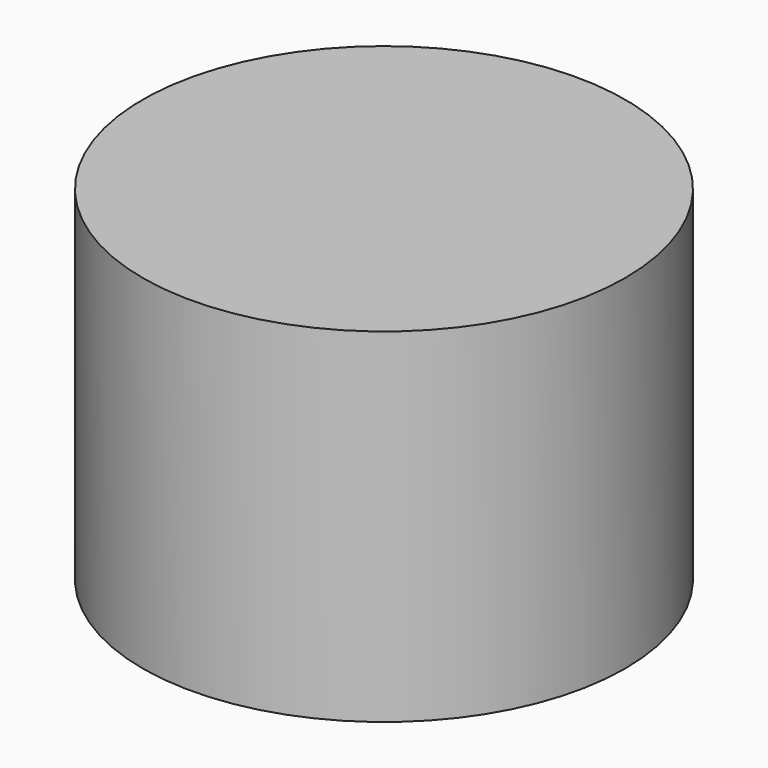
from build123d import *

# Parameters (mm, degrees)
F1_DEPTH = 3
F2_R     = 28.0774608195
F3_DEPTH = 40


with BuildPart() as f1:
    # F0 (on Top) → F1 (new body)
    with BuildSketch(Plane.XY):
        Polygon((-1.7611852, -21.5291416), (-1.5558652548, -21.5468495974), (-1.0818114, -21.5856312), (-0.4699508, -21.636609), (-0.3969258, -21.6435178), (-0.3252724, -21.6490296), (-0.0207264, -21.6393776), (0.6104382, -21.5966548), (1.2671422874, -21.5364461052), (2.499741, -21.3913212), (3.6132043839, -21.2107490818), (6.184519, -20.6706216), (8.8854276053, -19.6513166478), (11.0250659271, -18.5041385702), (11.6169488059, -18.1392303583), (13.1631458775, -17.0308708174), (14.5146196803, -15.9487131763), (14.8102822115, -15.6819803366), (16.769207, -13.5475218), (17.7081260922, -12.2278313396), (18.507075, -10.9898942), (19.2238910484, -9.6673935698), (19.916775, -8.2544666), (20.8174642493, -5.702497231), (21.3873061424, -2.4919049825), (21.4648752019, -1.3591436346), (21.3225858635, 2.8283372709), (21.2470797809, 3.5533069067), (19.9200073834, 8.0860084067), (19.4731131349, 9.0976431353), (18.2131732681, 11.4558837068), (17.560163, 12.523597), (17.013301, 13.255117), (16.824325, 13.504545), (16.280003, 14.266545), (15.854045, 14.998573), (15.657195, 15.625445), (15.610459, 16.150463), (15.610459, 16.323945), (15.610459, 16.649319), (15.511145, 17.622393), (15.202535, 18.768695), (14.661007, 19.810603), (14.082141, 20.568793), (13.864463, 20.795869), (13.752703, 20.911693), (13.409803, 21.246719), (12.996291, 21.617051), (12.672441, 21.868003), (12.532995, 21.960459), (12.487529, 21.960459), (12.431141, 21.960459), (12.263247, 22.047073), (12.130913, 22.212681), (12.118467, 22.251035), (12.104751, 22.284309), (11.902059, 22.467697), (11.581003, 22.609429), (11.509375, 22.621875), (11.436223, 22.635591), (11.134471, 22.699091), (10.980293, 22.740239), (10.980293, 22.754209), (10.980293, 22.780117), (10.774807, 22.856063), (10.258171, 22.949789), (9.573133, 23.018623), (9.039987, 23.044785), (8.863457, 23.044785), (8.685657, 23.044785), (8.152511, 23.018623), (7.467473, 22.949789), (6.950837, 22.856063), (6.746875, 22.780117), (6.746875, 22.754209), (6.746875, 22.740239), (6.607683, 22.699091), (6.336157, 22.635591), (6.270117, 22.621875), (6.203823, 22.609429), (5.687187, 22.370923), (5.065649, 21.974175), (4.947031, 21.880195), (4.823079, 21.786723), (4.433189, 21.528913), (3.938397, 21.366353), (3.238373, 21.361019), (2.396363, 21.449157), (2.116709, 21.483447), (1.3587222, 21.578697), (-0.9508744, 21.564981), (-4.2402506, 21.133435), (-7.4607166, 20.257135), (-9.6394016, 19.375247), (-10.3188008, 18.997803), (-10.4620822, 18.916269), (-10.8906818, 18.669635), (-11.3812574, 18.379059), (-11.7367812, 18.152745), (-11.8869968, 18.045303), (-11.9063008, 18.017617), (-11.9269764, 17.998567), (-12.2246136, 17.790541), (-12.6807468, 17.515967), (-12.7799846, 17.462373), (-12.9798064, 17.360519), (-13.524103, 16.951325), (-14.4322546, 16.133953), (-15.4244294, 15.108809), (-16.4180012, 13.973175), (-17.3316392, 12.825095), (-18.0854096, 11.758803), (-18.5980324, 10.874121), (-18.785459, 10.419207), (-18.785459, 10.266299), (-18.785459, 10.182225), (-18.858484, 9.928733), (-19.0031878, 9.789541), (-19.0500508, 9.789541), (-19.1396112, 9.789541), (-19.404203, 9.410573), (-19.8947786, 8.404733), (-20.4391006, 6.965823), (-20.8387442, 5.714619), (-20.954492, 5.291709), (-21.1088224, 4.718431), (-21.3665308, 2.941955), (-21.5208612, 0.1790954), (-21.4133684, -2.5728422), (-21.1832444, -4.3284394), (-21.0344258, -4.894834), (-20.8414874, -5.651373), (-20.515945375, -6.5779703255), (-19.99739935, -8.0040158735), (-19.5117547222, -9.0084101171), (-18.5030676908, -10.9688442857), (-17.8649312465, -11.9313273863), (-16.6442163316, -13.6184643873), (-15.8824762399, -14.4852897079), (-14.4595281703, -15.930960401), (-13.5443086653, -16.7213791302), (-12.0295088731, -17.8509815823), (-10.8809066074, -18.5925405496), (-9.4560675926, -19.3455667133), (-7.9344376077, -20.0470881429), (-5.9428515133, -20.7280435223), (-5.4970172, -20.871815), (-4.7625508, -21.0344258), (-4.5089572, -21.092287), (-3.7427916, -21.2521546), (-2.808478, -21.4078566), align=None)
        Polygon((4.572381, -18.0730144), (4.365625, -18.1239922), (4.001897, -18.2163212), (2.7649225248, -18.3473361654), (2.244725, -18.425795), (0.4615942, -18.49882), (-0.132334, -18.4947052), (-0.4244594, -18.4891934), (-0.9605637774, -18.4773671105), (-1.967865, -18.4767728), (-3.2356806, -18.407888), (-3.4667143466, -18.3586550193), (-3.5002724, -18.3554878), (-3.5719258, -18.3362346), (-3.9136574, -18.267299), (-4.9196244, -17.9600352), (-6.5691512, -17.3564296), (-8.2090006, -16.6536116), (-9.206738, -16.1671762), (-9.5250508, -15.9811466), (-10.1479096, -15.6173424), (-11.8773702, -14.2930372), (-14.050518, -12.1433336), (-15.8653988, -9.7372678), (-16.893413, -7.9168752), (-17.1456096, -7.276084), (-17.3412658, -6.7785996), (-17.8511708, -5.2572412), (-18.2838344, -3.3762442), (-18.4781444, -1.4000988), (-18.4919366, 0.3265678), (-18.4685178, 0.8998204), (-18.4519824, 1.3146278), (-18.3747918, 2.558923), (-18.231485, 3.814445), (-18.0082444, 4.854829), (-17.7684684, 5.622417), (-17.6747678, 5.873115), (-17.3605444, 6.719189), (-16.0927796, 9.134983), (-13.9402566, 12.101957), (-11.3674906, 14.607159), (-9.2728796, 16.096869), (-8.5190584, 16.484219), (-8.2820764, 16.610965), (-7.5599544, 16.974439), (-6.6876422, 17.383887), (-6.0055252, 17.674717), (-5.6817006, 17.794351), (-5.6086502, 17.807051), (-5.5369968, 17.820767), (-5.1304952, 17.939385), (-4.7639224, 18.111597), (-4.7102014, 18.149951), (-4.5847762, 18.243931), (-3.3831022, 18.376265), (-0.833755, 18.482437), (1.912747, 18.449163), (3.445129, 18.350103), (3.836543, 18.256123), (5.037963, 17.983581), (8.505317, 16.547465), (12.478131, 13.748893), (15.642209, 9.963277), (17.466691, 6.508369), (17.885537, 5.291709), (18.063337, 4.769231), (18.286603, 3.050921), (18.421731, -5.08e-05), (18.286603, -3.0496256), (18.063337, -4.7680372), (17.885537, -5.291709), (17.568545, -6.2218824), (16.291179, -8.9035636), (14.158087, -12.0082818), (11.534013, -14.5521172), (9.275445, -16.0858962), (8.466709, -16.4841428), (8.195183, -16.6191946), (8.1650278356, -16.6330659756), (7.911211, -16.7583612), (7.5340824775, -16.9233008404), (7.368413, -16.9995088), (7.1135913245, -17.1072054124), (6.206617, -17.5038766), (5.965320996, -17.5801848985), (5.181473, -17.8745896), align=None, mode=Mode.SUBTRACT)
    extrude(amount=F1_DEPTH)


with BuildPart() as f1b:
    # F0 (on Top) → F1, piece 2 (new body)
    with BuildSketch(Plane.XY):
        Polygon((-14.4680686, 1.6715232), (-14.4721834, 1.1106404), (-14.5259552, -3.704209), (-12.9646172, -3.704209), (-12.7771906, -3.704209), (-12.2149616, -3.6821618), (-11.7244114, -3.6173918), (-11.458448, -3.5030156), (-11.3771172, -3.3748472), (-11.3771172, -3.3335214), (-11.3771172, -3.2632396), (-11.6348256, -3.0523942), (-12.2893836, -2.983484), (-12.4878084, -2.9903928), (-13.626084, -3.0165802), (-13.7060178, 1.5612872), (-13.7142728, 2.104263), (-13.7542524, 3.733165), (-13.8259058, 5.123561), (-13.9375134, 5.844159), (-14.0822172, 6.015101), (-14.1028928, 6.005449), (-14.160754, 5.987669), (-14.2572486, 5.703697), (-14.3674846, 4.849241), (-14.4377664, 3.349879), align=None)
    extrude(amount=F1_DEPTH)


with BuildPart() as f1c:
    # F0 (on Top) → F1, piece 3 (new body)
    with BuildSketch(Plane.XY):
        Polygon((-10.1864922, 5.953125), (-10.2664514, 1.1106404), (-10.3188008, -3.704209), (-8.7313008, -3.704209), (-8.5438742, -3.704209), (-7.9816452, -3.6821618), (-7.4910696, -3.6173918), (-7.2251062, -3.5030156), (-7.1438008, -3.3748472), (-7.1438008, -3.3335214), (-7.1438008, -3.2604964), (-7.4083672, -3.0455108), (-8.097393, -3.002788), (-8.3082384, -3.0165802), (-9.4988634, -3.0689296), (-9.5774002, -1.1383264), (-9.657334, 0.7936992), (-8.7836502, 0.7936992), (-8.623808, 0.7936992), (-8.142859, 0.892937), (-7.9375508, 1.1161776), (-7.9375508, 1.1905742), (-7.9375508, 1.2649708), (-8.1332324, 1.4882622), (-8.5631528, 1.5874492), (-8.7051134, 1.5874492), (-8.8167464, 1.5874492), (-9.1515946, 1.6163798), (-9.389999, 1.8189956), (-9.5057468, 2.368677), (-9.5636334, 3.172333), (-9.5774002, 3.439541), (-9.657334, 5.265547), (-8.4928964, 5.344033), (-8.3275424, 5.357749), (-7.627493, 5.506593), (-7.2168258, 5.723001), (-7.1961502, 5.768467), (-7.1865236, 5.804281), (-7.2237346, 5.929757), (-7.4456036, 6.020689), (-7.9003144, 6.052439), (-8.4446618, 6.041263), (-8.6251796, 6.033135), align=None)
    extrude(amount=F1_DEPTH)


with BuildPart() as f1d:
    # F0 (on Top) → F1, piece 4 (new body)
    with BuildSketch(Plane.XY):
        Polygon((-3.2765859101, -3.6027259009), (-3.2136357243, -3.6395148292), (-2.7077358109, -3.8574799831), (-2.6127964, -3.8916102), (-2.5957898688, -3.8980987265), (-2.4336502, -3.9426134), (-2.4183047173, -3.9469997477), (-2.15392, -3.8461442), (-1.7129506, -3.6242752), (-1.6137128, -3.5719258), (-1.5753004877, -3.5522118895), (-1.471803, -3.4851086), (-0.9646666, -3.0193234), (-0.9218316589, -2.9648674403), (-0.7152386, -2.6720546), (-0.6876796, -2.5935178), (-0.6284214, -2.3606252), (-0.5319522, -1.6412718), (-0.6683756, -0.7938008), (-1.1727434, 0.154305), (-1.8714212, 1.0996422), (-2.116709, 1.4028166), (-2.3799292, 1.7280128), (-3.1102808, 2.749169), (-3.6132516, 3.753739), (-3.658743, 4.517263), (-3.4051494, 5.009007), (-3.2811466, 5.133213), (-3.1461202, 5.272405), (-2.5962864, 5.552059), (-1.9651218, 5.463921), (-1.5034768, 4.940173), (-1.322959, 4.271899), (-1.322959, 4.048633), (-1.322959, 3.883279), (-1.2237212, 3.384423), (-1.0004806, 3.174873), (-0.926084, 3.174873), (-0.8378952, 3.174873), (-0.5733034, 3.519551), (-0.58293, 4.316095), (-0.888873, 5.218557), (-1.2609322, 5.762879), (-1.4290802, 5.873115), (-1.5393162, 5.944743), (-1.9458178, 6.045327), (-2.6031444, 6.052439), (-3.2563562, 5.911723), (-3.6532312, 5.729859), (-3.7565584, 5.636133), (-3.8364922, 5.562981), (-4.1148762, 5.037963), (-4.2333672, 4.335399), (-4.2333672, 4.100957), (-4.2333672, 3.938397), (-4.1810178, 3.450463), (-3.9729156, 2.855341), (-3.5305746, 2.156587), (-2.9711142, 1.4289786), (-2.7781758, 1.1905742), (-2.5907238, 0.965962), (-2.0491958, 0.2700528), (-1.6040862, -0.4230878), (-1.3836142, -0.9963658), (-1.322959, -1.4194028), (-1.322959, -1.5613634), (-1.322959, -1.8617692), (-1.598549, -2.7643836), (-2.2062694, -3.1750508), (-2.4074628, -3.1750508), (-2.5370028, -3.1750508), (-2.9228796, -3.0386274), (-3.334893, -2.6679144), (-3.6063936, -2.1139658), (-3.704209, -1.5999714), (-3.704209, -1.4290802), (-3.704209, -1.269238), (-3.777234, -0.7896606), (-3.9219378, -0.529209), (-3.9688008, -0.529209), (-4.0142668, -0.529209), (-4.1506902, -0.869569), (-4.2333672, -1.4676628), (-4.2333672, -1.6674846), (-4.2333672, -1.857629), (-4.2156760979, -1.9908371274), (-4.1385129851, -2.4756866938), (-4.0768298153, -2.6293557287), (-3.8335723304, -3.1148699555), (-3.7277722397, -3.2295434334), align=None)
    extrude(amount=F1_DEPTH)


with BuildPart() as f1e:
    # F0 (on Top) → F1, piece 5 (new body)
    with BuildSketch(Plane.XY):
        Polygon((0.7936992, 6.085459), (0.7936992, 1.1905742), (0.7936992, 0.6738366), (0.8116316, -0.8792464), (0.8653526, -2.4171402), (0.9494266, -3.3734756), (1.030732, -3.704209), (1.058291, -3.704209), (1.0844784, -3.704209), (1.1657838, -3.54711), (1.2498578, -3.1116524), (1.3035788, -2.4419306), (1.3228828, -1.8011394), (1.3228828, -1.5875508), (1.3228828, 0.5291328), (2.090547, 0.5291328), (2.272411, 0.5291328), (2.818003, 0.688975), (3.446399, 1.0059416), (3.545713, 1.0844784), (3.642233, 1.1616436), (3.909441, 1.4221206), (4.116197, 1.8093182), (4.211193, 2.392299), (4.233291, 3.078607), (4.233291, 3.307207), (4.233291, 3.537331), (4.211193, 4.223639), (4.116197, 4.805299), (3.909441, 5.193919), (3.642233, 5.454269), (3.545713, 5.529961), (3.432683, 5.616829), (2.754757, 5.936615), (2.057273, 6.085459), (1.8258536, 6.085459), align=None)
        Polygon((3.523615, 1.995297), (3.439541, 1.8258536), (3.385693, 1.7404334), (3.002661, 1.4455394), (2.9342803997, 1.4307317803), (2.933827, 1.4303756), (2.8992250897, 1.4231406551), (2.436241, 1.3228828), (2.419731, 1.3228828), (2.249043, 1.3228828), (1.3228828, 1.3228828), (1.3228828, 3.307207), (1.3228828, 5.291709), (2.090547, 5.291709), (2.258441, 5.291709), (2.266823, 5.291709), (2.798699, 5.173091), (2.9127743315, 5.093019997), (3.227197, 4.929251), (3.281045, 4.868545), (3.385693, 4.763897), (3.5498776967, 4.3370167887), (3.603625, 4.232021), (3.704209, 3.618611), (3.704209, 3.413379), (3.704209, 3.168015), (3.6533098299, 2.6721311119), (3.649091, 2.570099), (3.6372862477, 2.5160217642), (3.628263, 2.428113), (3.6044085046, 2.365409755), align=None, mode=Mode.SUBTRACT)
    extrude(amount=F1_DEPTH)


with BuildPart() as f1f:
    # F0 (on Top) → F1, piece 6 (new body)
    with BuildSketch(Plane.XY):
        Polygon((5.929757, -3.140583), (6.005449, -3.2274002), (6.104763, -3.3376362), (6.527673, -3.5581336), (7.212711, -3.67665), (7.920863, -3.5774122), (8.395081, -3.363849), (8.519033, -3.2549846), (8.597519, -3.186049), (8.772525, -2.9063188), (8.915781, -2.2379686), (8.980551, -0.979805), (8.995791, 0.6090666), (8.995791, 1.1382248), (8.995791, 1.511681), (8.984869, 2.627757), (8.943467, 3.786759), (8.857869, 4.657725), (8.717407, 5.279263), (8.506587, 5.692521), (8.214487, 5.937885), (7.824343, 6.056503), (7.452487, 6.085459), (7.328281, 6.085459), (7.193407, 6.085459), (6.788277, 6.059297), (6.370701, 5.950331), (6.057773, 5.718683), (5.836031, 5.321935), (5.691251, 4.718431), (5.605907, 3.865245), (5.565775, 2.720213), (5.556123, 1.612265), (5.556123, 1.2429236), (5.556123, 0.7316978), (5.574157, -0.8020558), (5.641721, -2.0836128), (5.779389, -2.81813), align=None)
        Polygon((8.368919, -2.1594318), (8.3953458816, -2.3737403098), (8.3819420995, -2.5602392987), (8.3464216441, -2.7280768845), (8.251571, -2.902204), (7.661783, -3.1419546), (7.117461, -3.250819), (6.879209, -3.1736792), (6.879209, -3.1488634), (6.879209, -3.1061406), (6.779895, -2.9793692), (6.615811, -2.910459), (6.562217, -2.910459), (6.520815, -2.910459), (6.400927, -2.7299412), (6.309995, -2.1291296), (6.278245, -1.0129012), (6.289421, 0.2824734), (6.297549, 0.7137654), (6.303137, 1.0803382), (6.328029, 2.175891), (6.365113, 3.312795), (6.417437, 4.165727), (6.491859, 4.772025), (6.593967, 5.175885), (6.731635, 5.414391), (6.912229, 5.527167), (7.085711, 5.556123), (7.143623, 5.556123), (7.273163, 5.556123), (7.666101, 5.364607), (7.989697, 4.670171), (8.155305, 3.301619), (8.202041, 1.6397986), (8.202041, 1.0844784), (8.202041, 0.7096506), (8.221345, -0.4162044), (8.277733, -1.5007336), align=None, mode=Mode.SUBTRACT)
    extrude(amount=F1_DEPTH)


with BuildPart() as f1g:
    # F0 (on Top) → F1, piece 7 (new body)
    with BuildSketch(Plane.XY):
        Polygon((11.509375, 1.077595), (11.509375, 0.7137654), (11.509375, 0.1874012), (11.525885, -1.3932408), (11.582273, -2.7547316), (11.687175, -3.4851086), (11.810873, -3.704209), (11.854053, -3.704209), (11.891137, -3.704209), (12.002643, -3.4809684), (12.100687, -2.7340814), (12.154281, -1.3477494), (12.170791, 0.2590292), (12.170791, 0.7936992), (12.170791, 5.291709), (12.832207, 5.291709), (12.953619, 5.291709), (13.321665, 5.401945), (13.493623, 5.616829), (13.493623, 5.688457), (13.493623, 5.740781), (13.426313, 5.895213), (13.179425, 6.009513), (12.678029, 6.050915), (12.059285, 6.041263), (11.854053, 6.033135), (11.600307, 6.021959), (10.843641, 5.921375), (10.314559, 5.732653), (10.316083, 5.507863), (10.748645, 5.325999), (10.900283, 5.291709), (10.949813, 5.279263), (11.099927, 5.229733), (11.251565, 5.127625), (11.360531, 4.932045), (11.432159, 4.591685), (11.476355, 4.051427), (11.499723, 3.260471), (11.507851, 2.166239), align=None)
    extrude(amount=F1_DEPTH)


with BuildPart() as f1h:
    # F0 (on Top) → F1, piece 8 (new body)
    with BuildSketch(Plane.XY):
        Polygon((14.597507, 5.397627), (14.604365, 5.291709), (14.611223, 5.179949), (14.707743, 4.726559), (14.827631, 4.497959), (14.868779, 4.497959), (14.904847, 4.497959), (15.013813, 4.726559), (15.081123, 5.150993), (15.081123, 5.291709), (15.081123, 5.430901), (14.998573, 5.848223), (14.862175, 6.085459), (14.816709, 6.085459), (14.772513, 6.085459), (14.640179, 5.848223), align=None)
    extrude(amount=F1_DEPTH)


with BuildPart() as f3:
    # F2 (on face) → F3 (new body)
    with BuildSketch(Plane.XY.offset(3)):
        with Locations((-0.8351213182, 0)):
            Circle(F2_R)
        Polygon((-19.99739935, -8.0040158735), (-20.515945375, -6.5779703255), (-20.8414874, -5.651373), (-21.0344258, -4.894834), (-21.1832444, -4.3284394), (-21.4133684, -2.5728422), (-21.5208612, 0.1790954), (-21.3665308, 2.941955), (-21.1088224, 4.718431), (-20.954492, 5.291709), (-20.8387442, 5.714619), (-20.4391006, 6.965823), (-19.8947786, 8.404733), (-19.404203, 9.410573), (-19.1396112, 9.789541), (-19.0031878, 9.789541), (-18.858484, 9.928733), (-18.785459, 10.182225), (-18.785459, 10.419207), (-18.5980324, 10.874121), (-18.0854096, 11.758803), (-17.3316392, 12.825095), (-16.4180012, 13.973175), (-15.4244294, 15.108809), (-14.4322546, 16.133953), (-13.524103, 16.951325), (-12.9798064, 17.360519), (-12.7799846, 17.462373), (-12.6807468, 17.515967), (-12.2246136, 17.790541), (-11.9269764, 17.998567), (-11.9063008, 18.017617), (-11.8869968, 18.045303), (-11.7367812, 18.152745), (-11.3812574, 18.379059), (-10.8906818, 18.669635), (-10.4620822, 18.916269), (-10.3188008, 18.997803), (-9.6394016, 19.375247), (-7.4607166, 20.257135), (-4.2402506, 21.133435), (-0.9508744, 21.564981), (1.3587222, 21.578697), (2.116709, 21.483447), (2.396363, 21.449157), (3.238373, 21.361019), (3.938397, 21.366353), (4.433189, 21.528913), (4.823079, 21.786723), (4.947031, 21.880195), (5.065649, 21.974175), (5.687187, 22.370923), (6.203823, 22.609429), (6.270117, 22.621875), (6.336157, 22.635591), (6.607683, 22.699091), (6.746875, 22.740239), (6.746875, 22.780117), (6.950837, 22.856063), (7.467473, 22.949789), (8.152511, 23.018623), (8.685657, 23.044785), (9.039987, 23.044785), (9.573133, 23.018623), (10.258171, 22.949789), (10.774807, 22.856063), (10.980293, 22.780117), (10.980293, 22.740239), (11.134471, 22.699091), (11.436223, 22.635591), (11.509375, 22.621875), (11.581003, 22.609429), (11.902059, 22.467697), (12.104751, 22.284309), (12.118467, 22.251035), (12.130913, 22.212681), (12.263247, 22.047073), (12.431141, 21.960459), (12.532995, 21.960459), (12.672441, 21.868003), (12.996291, 21.617051), (13.409803, 21.246719), (13.752703, 20.911693), (13.864463, 20.795869), (14.082141, 20.568793), (14.661007, 19.810603), (15.202535, 18.768695), (15.511145, 17.622393), (15.610459, 16.649319), (15.610459, 16.150463), (15.657195, 15.625445), (15.854045, 14.998573), (16.280003, 14.266545), (16.824325, 13.504545), (17.013301, 13.255117), (17.560163, 12.523597), (18.2131732681, 11.4558837068), (19.4731131349, 9.0976431353), (19.9200073834, 8.0860084067), (21.2470797809, 3.5533069067), (21.3225858635, 2.8283372709), (21.4648752019, -1.3591436346), (21.3873061424, -2.4919049825), (20.8174642493, -5.702497231), (19.916775, -8.2544666), (19.2238910484, -9.6673935698), (18.507075, -10.9898942), (17.7081260922, -12.2278313396), (16.769207, -13.5475218), (14.8102822115, -15.6819803366), (14.5146196803, -15.9487131763), (13.1631458775, -17.0308708174), (11.6169488059, -18.1392303583), (11.0250659271, -18.5041385702), (8.8854276053, -19.6513166478), (6.184519, -20.6706216), (3.6132043839, -21.2107490818), (2.499741, -21.3913212), (1.2671422874, -21.5364461052), (0.6104382, -21.5966548), (-0.0207264, -21.6393776), (-0.3252724, -21.6490296), (-0.3969258, -21.6435178), (-0.4699508, -21.636609), (-1.0818114, -21.5856312), (-1.5558652548, -21.5468495974), (-1.7611852, -21.5291416), (-2.808478, -21.4078566), (-3.7427916, -21.2521546), (-4.5089572, -21.092287), (-4.7625508, -21.0344258), (-5.4970172, -20.871815), (-5.9428515133, -20.7280435223), (-7.9344376077, -20.0470881429), (-9.4560675926, -19.3455667133), (-10.8809066074, -18.5925405496), (-12.0295088731, -17.8509815823), (-13.5443086653, -16.7213791302), (-14.4595281703, -15.930960401), (-15.8824762399, -14.4852897079), (-16.6442163316, -13.6184643873), (-17.8649312465, -11.9313273863), (-18.5030676908, -10.9688442857), (-19.5117547222, -9.0084101171), align=None, mode=Mode.SUBTRACT)
        Polygon((-20.8414874, -5.651373), (-20.515945375, -6.5779703255), (-19.99739935, -8.0040158735), (-19.5117547222, -9.0084101171), (-18.5030676908, -10.9688442857), (-17.8649312465, -11.9313273863), (-16.6442163316, -13.6184643873), (-15.8824762399, -14.4852897079), (-14.4595281703, -15.930960401), (-13.5443086653, -16.7213791302), (-12.0295088731, -17.8509815823), (-10.8809066074, -18.5925405496), (-9.4560675926, -19.3455667133), (-7.9344376077, -20.0470881429), (-5.9428515133, -20.7280435223), (-5.4970172, -20.871815), (-4.7625508, -21.0344258), (-4.5089572, -21.092287), (-3.7427916, -21.2521546), (-2.808478, -21.4078566), (-1.7611852, -21.5291416), (-1.5558652548, -21.5468495974), (-1.0818114, -21.5856312), (-0.4699508, -21.636609), (-0.3969258, -21.6435178), (-0.3252724, -21.6490296), (-0.0207264, -21.6393776), (0.6104382, -21.5966548), (1.2671422874, -21.5364461052), (2.499741, -21.3913212), (3.6132043839, -21.2107490818), (6.184519, -20.6706216), (8.8854276053, -19.6513166478), (11.0250659271, -18.5041385702), (11.6169488059, -18.1392303583), (13.1631458775, -17.0308708174), (14.5146196803, -15.9487131763), (14.8102822115, -15.6819803366), (16.769207, -13.5475218), (17.7081260922, -12.2278313396), (18.507075, -10.9898942), (19.2238910484, -9.6673935698), (19.916775, -8.2544666), (20.8174642493, -5.702497231), (21.3873061424, -2.4919049825), (21.4648752019, -1.3591436346), (21.3225858635, 2.8283372709), (21.2470797809, 3.5533069067), (19.9200073834, 8.0860084067), (19.4731131349, 9.0976431353), (18.2131732681, 11.4558837068), (17.560163, 12.523597), (17.013301, 13.255117), (16.824325, 13.504545), (16.280003, 14.266545), (15.854045, 14.998573), (15.657195, 15.625445), (15.610459, 16.150463), (15.610459, 16.649319), (15.511145, 17.622393), (15.202535, 18.768695), (14.661007, 19.810603), (14.082141, 20.568793), (13.864463, 20.795869), (13.752703, 20.911693), (13.409803, 21.246719), (12.996291, 21.617051), (12.672441, 21.868003), (12.532995, 21.960459), (12.431141, 21.960459), (12.263247, 22.047073), (12.130913, 22.212681), (12.118467, 22.251035), (12.104751, 22.284309), (11.902059, 22.467697), (11.581003, 22.609429), (11.509375, 22.621875), (11.436223, 22.635591), (11.134471, 22.699091), (10.980293, 22.740239), (10.980293, 22.780117), (10.774807, 22.856063), (10.258171, 22.949789), (9.573133, 23.018623), (9.039987, 23.044785), (8.685657, 23.044785), (8.152511, 23.018623), (7.467473, 22.949789), (6.950837, 22.856063), (6.746875, 22.780117), (6.746875, 22.740239), (6.607683, 22.699091), (6.336157, 22.635591), (6.270117, 22.621875), (6.203823, 22.609429), (5.687187, 22.370923), (5.065649, 21.974175), (4.947031, 21.880195), (4.823079, 21.786723), (4.433189, 21.528913), (3.938397, 21.366353), (3.238373, 21.361019), (2.396363, 21.449157), (2.116709, 21.483447), (1.3587222, 21.578697), (-0.9508744, 21.564981), (-4.2402506, 21.133435), (-7.4607166, 20.257135), (-9.6394016, 19.375247), (-10.3188008, 18.997803), (-10.4620822, 18.916269), (-10.8906818, 18.669635), (-11.3812574, 18.379059), (-11.7367812, 18.152745), (-11.8869968, 18.045303), (-11.9063008, 18.017617), (-11.9269764, 17.998567), (-12.2246136, 17.790541), (-12.6807468, 17.515967), (-12.7799846, 17.462373), (-12.9798064, 17.360519), (-13.524103, 16.951325), (-14.4322546, 16.133953), (-15.4244294, 15.108809), (-16.4180012, 13.973175), (-17.3316392, 12.825095), (-18.0854096, 11.758803), (-18.5980324, 10.874121), (-18.785459, 10.419207), (-18.785459, 10.182225), (-18.858484, 9.928733), (-19.0031878, 9.789541), (-19.1396112, 9.789541), (-19.404203, 9.410573), (-19.8947786, 8.404733), (-20.4391006, 6.965823), (-20.8387442, 5.714619), (-20.954492, 5.291709), (-21.1088224, 4.718431), (-21.3665308, 2.941955), (-21.5208612, 0.1790954), (-21.4133684, -2.5728422), (-21.1832444, -4.3284394), (-21.0344258, -4.894834), align=None)
        Polygon((7.368413, -16.9995088), (7.1135913245, -17.1072054124), (6.206617, -17.5038766), (5.965320996, -17.5801848985), (5.181473, -17.8745896), (4.572381, -18.0730144), (4.365625, -18.1239922), (4.001897, -18.2163212), (2.7649225248, -18.3473361654), (2.244725, -18.425795), (0.4615942, -18.49882), (-0.132334, -18.4947052), (-0.4244594, -18.4891934), (-0.9605637774, -18.4773671105), (-1.967865, -18.4767728), (-3.2356806, -18.407888), (-3.4667143466, -18.3586550193), (-3.5002724, -18.3554878), (-3.5719258, -18.3362346), (-3.9136574, -18.267299), (-4.9196244, -17.9600352), (-6.5691512, -17.3564296), (-8.2090006, -16.6536116), (-9.206738, -16.1671762), (-9.5250508, -15.9811466), (-10.1479096, -15.6173424), (-11.8773702, -14.2930372), (-14.050518, -12.1433336), (-15.8653988, -9.7372678), (-16.893413, -7.9168752), (-17.1456096, -7.276084), (-17.3412658, -6.7785996), (-17.8511708, -5.2572412), (-18.2838344, -3.3762442), (-18.4781444, -1.4000988), (-18.4919366, 0.3265678), (-18.4685178, 0.8998204), (-18.4519824, 1.3146278), (-18.3747918, 2.558923), (-18.231485, 3.814445), (-18.0082444, 4.854829), (-17.7684684, 5.622417), (-17.6747678, 5.873115), (-17.3605444, 6.719189), (-16.0927796, 9.134983), (-13.9402566, 12.101957), (-11.3674906, 14.607159), (-9.2728796, 16.096869), (-8.5190584, 16.484219), (-8.2820764, 16.610965), (-7.5599544, 16.974439), (-6.6876422, 17.383887), (-6.0055252, 17.674717), (-5.6817006, 17.794351), (-5.6086502, 17.807051), (-5.5369968, 17.820767), (-5.1304952, 17.939385), (-4.7639224, 18.111597), (-4.7102014, 18.149951), (-4.5847762, 18.243931), (-3.3831022, 18.376265), (-0.833755, 18.482437), (1.912747, 18.449163), (3.445129, 18.350103), (3.836543, 18.256123), (5.037963, 17.983581), (8.505317, 16.547465), (12.478131, 13.748893), (15.642209, 9.963277), (17.466691, 6.508369), (17.885537, 5.291709), (18.063337, 4.769231), (18.286603, 3.050921), (18.421731, -5.08e-05), (18.286603, -3.0496256), (18.063337, -4.7680372), (17.885537, -5.291709), (17.568545, -6.2218824), (16.291179, -8.9035636), (14.158087, -12.0082818), (11.534013, -14.5521172), (9.275445, -16.0858962), (8.466709, -16.4841428), (8.195183, -16.6191946), (8.1650278356, -16.6330659756), (7.911211, -16.7583612), (7.5340824775, -16.9233008404), align=None, mode=Mode.SUBTRACT)
        Polygon((6.206617, -17.5038766), (7.1135913245, -17.1072054124), (7.368413, -16.9995088), (7.5340824775, -16.9233008404), (7.911211, -16.7583612), (8.1650278356, -16.6330659756), (8.195183, -16.6191946), (8.466709, -16.4841428), (9.275445, -16.0858962), (11.534013, -14.5521172), (14.158087, -12.0082818), (16.291179, -8.9035636), (17.568545, -6.2218824), (17.885537, -5.291709), (18.063337, -4.7680372), (18.286603, -3.0496256), (18.421731, -5.08e-05), (18.286603, 3.050921), (18.063337, 4.769231), (17.885537, 5.291709), (17.466691, 6.508369), (15.642209, 9.963277), (12.478131, 13.748893), (8.505317, 16.547465), (5.037963, 17.983581), (3.836543, 18.256123), (3.445129, 18.350103), (1.912747, 18.449163), (-0.833755, 18.482437), (-3.3831022, 18.376265), (-4.5847762, 18.243931), (-4.7102014, 18.149951), (-4.7639224, 18.111597), (-5.1304952, 17.939385), (-5.5369968, 17.820767), (-5.6086502, 17.807051), (-5.6817006, 17.794351), (-6.0055252, 17.674717), (-6.6876422, 17.383887), (-7.5599544, 16.974439), (-8.2820764, 16.610965), (-8.5190584, 16.484219), (-9.2728796, 16.096869), (-11.3674906, 14.607159), (-13.9402566, 12.101957), (-16.0927796, 9.134983), (-17.3605444, 6.719189), (-17.6747678, 5.873115), (-17.7684684, 5.622417), (-18.0082444, 4.854829), (-18.231485, 3.814445), (-18.3747918, 2.558923), (-18.4519824, 1.3146278), (-18.4685178, 0.8998204), (-18.4919366, 0.3265678), (-18.4781444, -1.4000988), (-18.2838344, -3.3762442), (-17.8511708, -5.2572412), (-17.3412658, -6.7785996), (-17.1456096, -7.276084), (-16.893413, -7.9168752), (-15.8653988, -9.7372678), (-14.050518, -12.1433336), (-11.8773702, -14.2930372), (-10.1479096, -15.6173424), (-9.5250508, -15.9811466), (-9.206738, -16.1671762), (-8.2090006, -16.6536116), (-6.5691512, -17.3564296), (-4.9196244, -17.9600352), (-3.9136574, -18.267299), (-3.5719258, -18.3362346), (-3.5002724, -18.3554878), (-3.4667143466, -18.3586550193), (-3.2356806, -18.407888), (-1.967865, -18.4767728), (-0.9605637774, -18.4773671105), (-0.4244594, -18.4891934), (-0.132334, -18.4947052), (0.4615942, -18.49882), (2.244725, -18.425795), (2.7649225248, -18.3473361654), (4.001897, -18.2163212), (4.365625, -18.1239922), (4.572381, -18.0730144), (5.181473, -17.8745896), (5.965320996, -17.5801848985), align=None)
    extrude(amount=F3_DEPTH)


solid = Compound([f1.part, f1b.part, f1c.part, f1d.part, f1e.part, f1f.part, f1g.part, f1h.part, f3.part])
